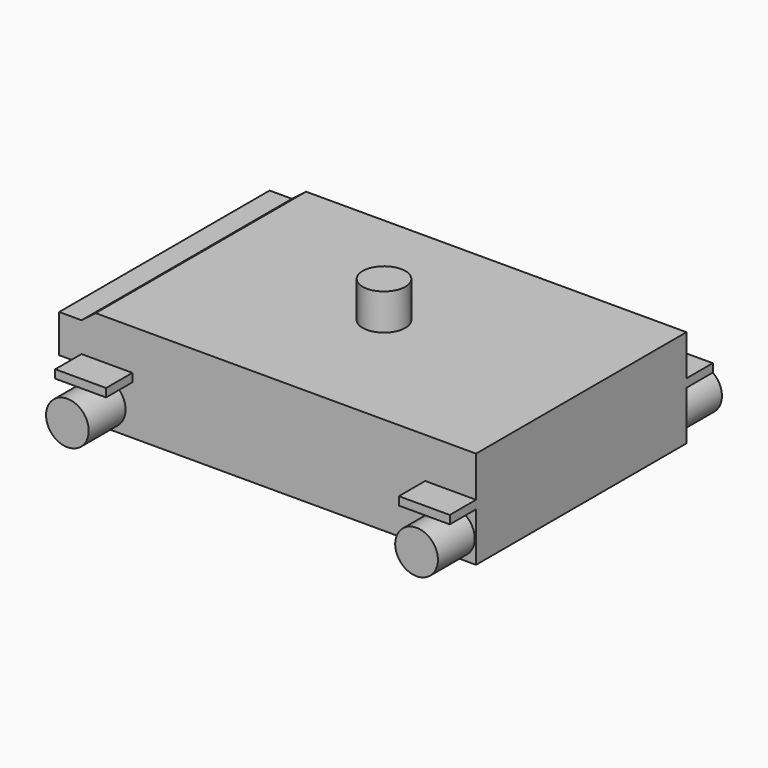
from build123d import *

# Parameters (mm, degrees)
F1_DEPTH  = 25.4
F0_W      = 9.8233733336
F0_H      = 1.6087094842
F2_DEPTH  = 31.75
F0_H_2    = 9.4561445239
F3_DEPTH  = 19.05
F5_DEPTH  = 4.318
F8_R      = 4.125
F9_DEPTH  = 7
F11_R     = 4.125
F7_R      = 4.125
F12_DEPTH = 15.24
F6_R      = 4.125
F10_R     = 4.125
F13_DEPTH = 15.24
F14_DEPTH = 6.35
F15_DEPTH = 6.35


with BuildPart() as f1:
    # F0 (on Front) → F1 (new body, symmetric)
    with BuildSketch(Plane.XZ):
        Polygon((38.1, 9.4561445239), (-35.3728867915, 9.4561445239), (-38.1, 7.3570762504), (-38.1, 1.6087094842), (-28.2766266664, 1.6087094842), (-28.2766266664, 0), (-28.2766266664, -9.4561445239), (28.2766266664, -9.4561445239), (28.2766266664, 0), (28.2766266664, 1.6087094842), (38.1, 1.6087094842), align=None)
    extrude(amount=F1_DEPTH, both=True)

    # F0 (on Front) → F2 (join, symmetric)
    with BuildSketch(Plane.XZ):
        with Locations((-33.1883133332, 0.8043547421)):
            Rectangle(F0_W, F0_H)
        with Locations((33.1883133332, 0.8043547421)):
            Rectangle(F0_W, F0_H)
    extrude(amount=F2_DEPTH, both=True)

    # F0 (on Front) → F3 (join, symmetric)
    with BuildSketch(Plane.XZ):
        with Locations((-33.1883133332, -4.728072262)):
            Rectangle(F0_W, F0_H_2)
        with Locations((33.1883133332, -4.728072262)):
            Rectangle(F0_W, F0_H_2)
    extrude(amount=F3_DEPTH, both=True)

    # F4 (on face) → F5 (join)
    with BuildSketch(Plane(origin=(-38.1, 0, 0), x_dir=(0, -1, 0), z_dir=(-1, 0, 0))):
        Polygon((-19.05, 0), (19.05, 0), (25.4, 0), (25.4, 1.6087094842), (25.4, 7.3570762504), (-25.4, 7.3570762504), (-25.4, 1.6087094842), (-25.4, 0), align=None)
    extrude(amount=F5_DEPTH)

    # F8 (on face) → F9 (join)
    with BuildSketch(Plane.XY.offset(9.4561445239)):
        Circle(F8_R)
    extrude(amount=F9_DEPTH)

    # F11 (on face) + F7 (on face) → F12 (join)
    with BuildSketch(Plane(origin=(0, 19.05, 0), x_dir=(-1, 0, 0), z_dir=(0, 1, 0))):
        with Locations((-33.721, -5.0771445239)):
            Circle(F11_R)
    with BuildSketch(Plane(origin=(0, 19.05, 0), x_dir=(-1, 0, 0), z_dir=(0, 1, 0))):
        with Locations((33.721, -5.0771445239)):
            Circle(F7_R)
    extrude(amount=F12_DEPTH)

    # F6 (on face) + F10 (on face) → F13 (join)
    with BuildSketch(Plane.XZ.offset(19.05)):
        with Locations((-33.721, -5.0771445239)):
            Circle(F6_R)
    with BuildSketch(Plane.XZ.offset(19.05)):
        with Locations((33.721, -5.0771445239)):
            Circle(F10_R)
    extrude(amount=F13_DEPTH)

    # F14 (add): faces of the model
    f14_faces = [f1.faces().sort_by_distance(p)[0] for p in [
        (-33.1883133332, -19.05, -0.1363515064),
        (33.1883133332, -19.05, -9.3197930175),
    ]]
    extrude(f14_faces, amount=F14_DEPTH)

    # F15 (add): faces of the model
    f15_faces = [f1.faces().sort_by_distance(p)[0] for p in [
        (33.1883133332, 19.05, -9.3197930175),
        (-33.1883133332, 19.05, -0.1363515064),
    ]]
    extrude(f15_faces, amount=F15_DEPTH)


solid = f1.part
